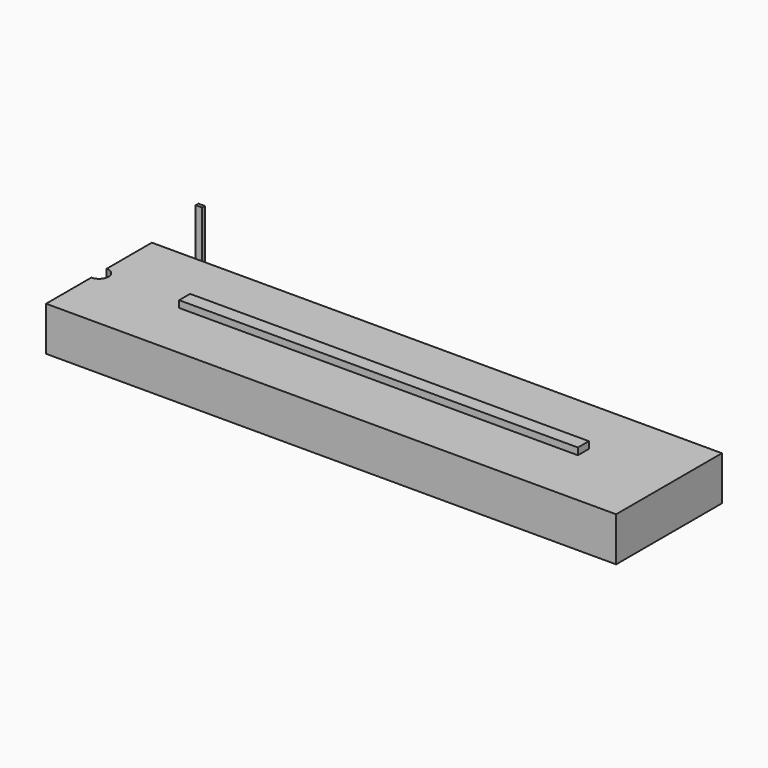
from build123d import *

# Parameters (mm, degrees)
F1_DEPTH = 3.22
F2_W     = 0.47
F2_H     = 0.25
F3_DEPTH = 4
F4_W     = 29.1
F4_H     = 1
F5_DEPTH = 0.5


with BuildPart() as f1:
    # F0 (on Top) → F1 (new body)
    with BuildSketch(Plane.XY):
        with BuildLine():
            Line((20.8, 4.825), (-20.8, 4.825))
            Line((-20.8, 4.825), (-20.8, 0.7))
            ThreePointArc((-20.8, 0.7), (-20.1, 0), (-20.8, -0.7))
            Line((-20.8, -0.7), (-20.8, -4.825))
            Line((-20.8, -4.825), (20.8, -4.825))
            Line((20.8, -4.825), (20.8, 4.825))
        make_face()
    extrude(amount=F1_DEPTH)

    # F4 (on face) → F5 (join)
    with BuildSketch(Plane.XY.offset(3.22)):
        Rectangle(F4_W, F4_H)
    extrude(amount=F5_DEPTH)


with BuildPart() as f3:
    # F2 (on Top) → F3 (new body)
    with BuildSketch(Plane.XY):
        with Locations((-20.565, 8.95)):
            Rectangle(F2_W, F2_H)
    extrude(amount=F3_DEPTH)


solid = Compound([f1.part, f3.part])
